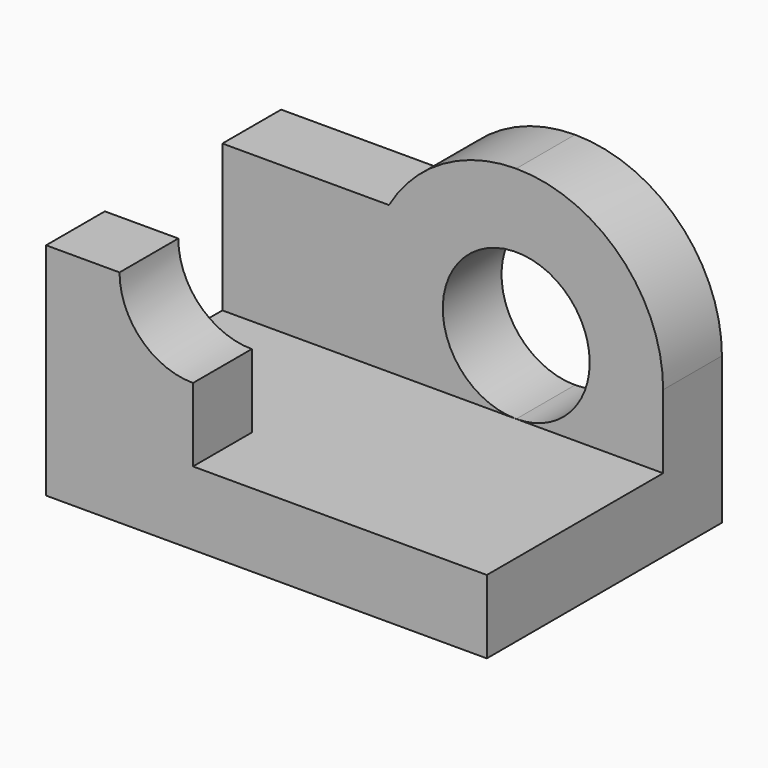
from build123d import *

# Parameters (mm, degrees)
F1_DEPTH = 10
F0_W     = 20
F0_H     = 10
F2_DEPTH = 30
F0_W_2   = 60
F3_DEPTH = 40
F5_DEPTH = 10
F7_DEPTH = 10.001
F8_DEPTH = 10.001


with BuildPart() as f1:
    # F0 (on Top) → F1 (new body)
    with BuildSketch(Plane.XY):
        Polygon((20, 10), (20, 0), (60, 0), (60, 30), (0, 30), (0, 10), align=None)
    extrude(amount=F1_DEPTH)

    # F0 (on Top) → F2 (join)
    with BuildSketch(Plane.XY):
        with Locations((10, 5)):
            Rectangle(F0_W, F0_H)
    extrude(amount=F2_DEPTH)

    # F0 (on Top) → F3 (join)
    with BuildSketch(Plane.XY):
        with Locations((30, 35)):
            Rectangle(F0_W_2, F0_H)
    extrude(amount=F3_DEPTH)

    # F4 (on face) → F5 (cut, through all)
    with BuildSketch(Plane.XZ):
        with BuildLine():
            Line((20, 30), (10, 30))
            ThreePointArc((10, 30), (12.928932, 22.928932), (20, 20))
            Line((20, 20), (20, 30))
        make_face()
    extrude(amount=-F5_DEPTH, mode=Mode.SUBTRACT)

    # F6 (on face) → F7 (cut, through all)
    with BuildSketch(Plane.XZ.offset(-30)):
        with BuildLine():
            ThreePointArc((22.679492, 30), (30, 37.320508), (40, 40))
            Line((40, 40), (0, 40))
            Line((0, 40), (0, 30))
            Line((0, 30), (22.679492, 30))
        make_face()
        with BuildLine():
            ThreePointArc((40, 40), (54.142136, 34.142136), (60, 20))
            Line((60, 20), (60, 40))
            Line((60, 40), (40, 40))
        make_face()
    extrude(amount=-F7_DEPTH, mode=Mode.SUBTRACT)

    # F6 (on face) → F8 (cut, through all)
    with BuildSketch(Plane.XZ.offset(-30)):
        with BuildLine():
            ThreePointArc((50, 20), (32.928932, 27.071068), (40, 10))
            ThreePointArc((40, 10), (47.071068, 12.928932), (50, 20))
        make_face()
    extrude(amount=-F8_DEPTH, mode=Mode.SUBTRACT)


solid = f1.part
